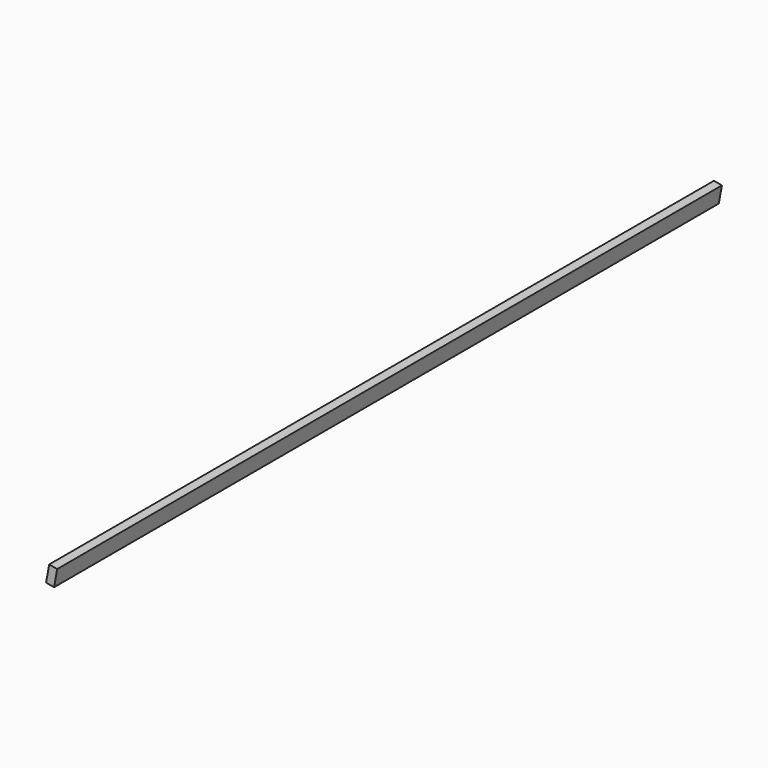
from build123d import *

# Parameters (mm, degrees)
F0_W     = 47
F0_H     = 100
F1_DEPTH = 4800
F2_ANGLE = 169.7


with BuildPart() as f1:
    # F0 (on Front) → F1 (new body)
    with BuildSketch(Plane.XZ):
        with Locations((-36.503769, 50)):
            Rectangle(F0_W, F0_H)
    extrude(amount=-F1_DEPTH)


with BuildPart() as f1_1:
    # F2: moved
    add(f1.part.rotate(Axis((-13.003769, 2400, 0), (0, -1, 0)), F2_ANGLE))


solid = f1_1.part
